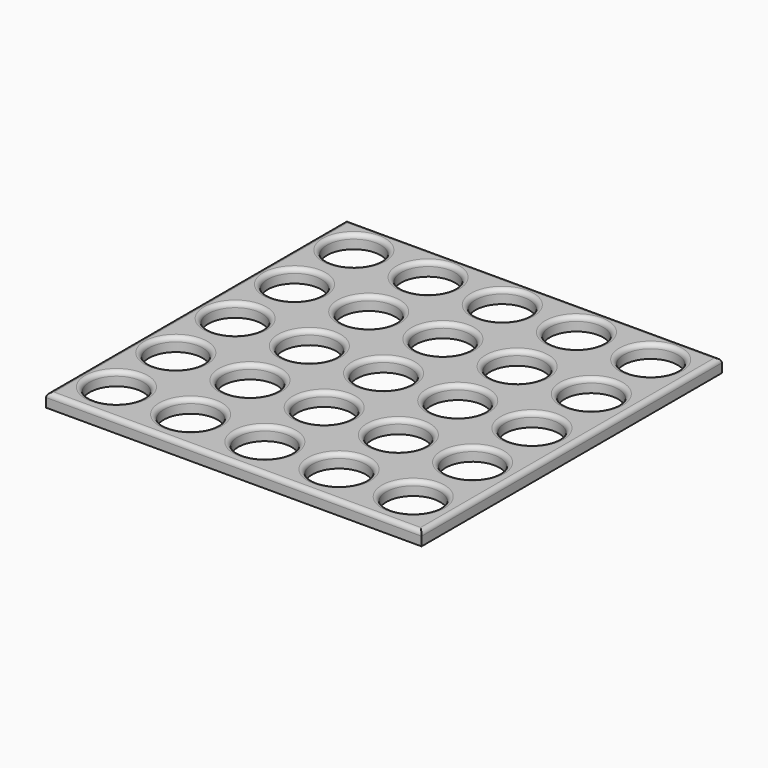
from build123d import *

# Parameters (mm, degrees)
F0_W     = 84
F0_H     = 84
F0_R     = 6
F1_DEPTH = 3
F2_R     = 1


with BuildPart() as f1:
    # F0 (on Top) → F1 (new body)
    with BuildSketch(Plane.XY):
        Rectangle(F0_W, F0_H)
        with Locations((-33.7, -32.7)):
            Circle(F0_R, mode=Mode.SUBTRACT)
        with Locations((-17.1, -32.7)):
            Circle(F0_R, mode=Mode.SUBTRACT)
        with Locations((-0.5, -32.7)):
            Circle(F0_R, mode=Mode.SUBTRACT)
        with Locations((-33.7, -16.1)):
            Circle(F0_R, mode=Mode.SUBTRACT)
        with Locations((-17.1, -16.1)):
            Circle(F0_R, mode=Mode.SUBTRACT)
        with Locations((-0.5, -16.1)):
            Circle(F0_R, mode=Mode.SUBTRACT)
        with Locations((16.1, -32.7)):
            Circle(F0_R, mode=Mode.SUBTRACT)
        with Locations((32.7, -32.7)):
            Circle(F0_R, mode=Mode.SUBTRACT)
        with Locations((16.1, -16.1)):
            Circle(F0_R, mode=Mode.SUBTRACT)
        with Locations((32.7, -16.1)):
            Circle(F0_R, mode=Mode.SUBTRACT)
        with Locations((-33.7, 0.5)):
            Circle(F0_R, mode=Mode.SUBTRACT)
        with Locations((-33.7, 17.1)):
            Circle(F0_R, mode=Mode.SUBTRACT)
        with Locations((-17.1, 0.5)):
            Circle(F0_R, mode=Mode.SUBTRACT)
        with Locations((-0.5, 0.5)):
            Circle(F0_R, mode=Mode.SUBTRACT)
        with Locations((-17.1, 17.1)):
            Circle(F0_R, mode=Mode.SUBTRACT)
        with Locations((-0.5, 17.1)):
            Circle(F0_R, mode=Mode.SUBTRACT)
        with Locations((-33.7, 33.7)):
            Circle(F0_R, mode=Mode.SUBTRACT)
        with Locations((-17.1, 33.7)):
            Circle(F0_R, mode=Mode.SUBTRACT)
        with Locations((-0.5, 33.7)):
            Circle(F0_R, mode=Mode.SUBTRACT)
        with Locations((16.1, 0.5)):
            Circle(F0_R, mode=Mode.SUBTRACT)
        with Locations((16.1, 17.1)):
            Circle(F0_R, mode=Mode.SUBTRACT)
        with Locations((32.7, 0.5)):
            Circle(F0_R, mode=Mode.SUBTRACT)
        with Locations((32.7, 17.1)):
            Circle(F0_R, mode=Mode.SUBTRACT)
        with Locations((16.1, 33.7)):
            Circle(F0_R, mode=Mode.SUBTRACT)
        with Locations((32.7, 33.7)):
            Circle(F0_R, mode=Mode.SUBTRACT)
    extrude(amount=F1_DEPTH)

    # F2
    f2_edges = [f1.edges().sort_by_distance(p)[0] for p in [
        (42, 0, 3),
        (0, 42, 3),
        (-42, 0, 3),
        (0, -42, 3),
        (-39.7, -32.7, 3),
        (-23.1, -32.7, 3),
        (-6.5, -32.7, 3),
        (-39.7, -16.1, 3),
        (-23.1, -16.1, 3),
        (-6.5, -16.1, 3),
        (10.1, -32.7, 3),
        (26.7, -32.7, 3),
        (10.1, -16.1, 3),
        (26.7, -16.1, 3),
        (-39.7, 0.5, 3),
        (-39.7, 17.1, 3),
        (-23.1, 0.5, 3),
        (-6.5, 0.5, 3),
        (-23.1, 17.1, 3),
        (-6.5, 17.1, 3),
        (-39.7, 33.7, 3),
        (-23.1, 33.7, 3),
        (-6.5, 33.7, 3),
        (10.1, 0.5, 3),
        (10.1, 17.1, 3),
        (26.7, 0.5, 3),
        (26.7, 17.1, 3),
        (10.1, 33.7, 3),
        (26.7, 33.7, 3),
    ]]
    fillet(f2_edges, radius=F2_R)


solid = f1.part
